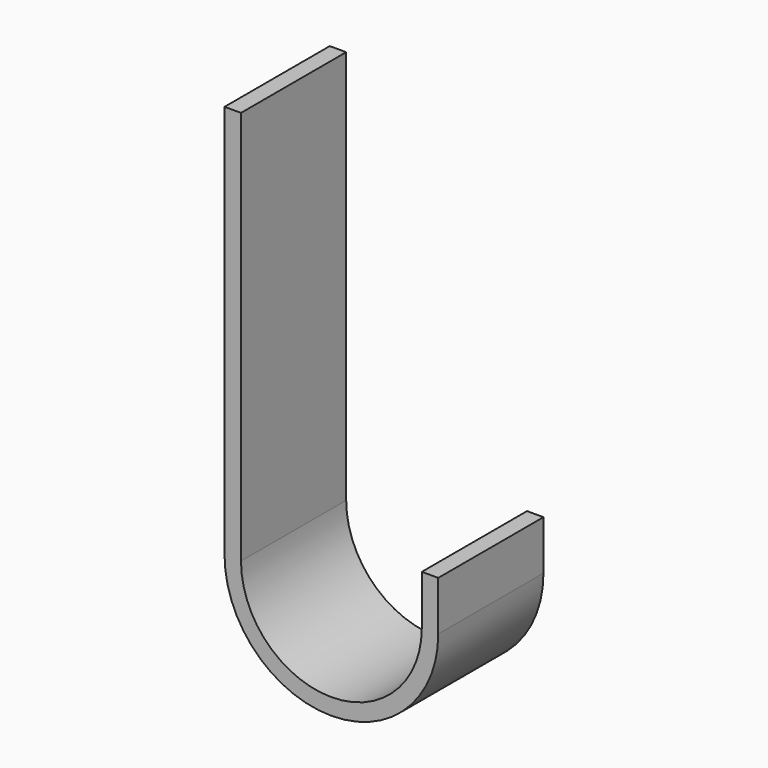
from build123d import *

# Parameters (mm, degrees)
F1_DEPTH = 50.8


with BuildPart() as f1:
    # F0 (on Front) → F1 (new body)
    with BuildSketch(Plane.XZ):
        with BuildLine():
            Line((0, 152.4), (0, 0))
            ThreePointArc((0, 0), (41.275, -41.275), (82.55, 0))
            Line((82.55, 0), (82.55, 19.05))
            Line((82.55, 19.05), (76.2, 19.05))
            Line((76.2, 19.05), (76.2, 0))
            ThreePointArc((76.2, 0), (41.275, -34.925), (6.35, 0))
            Line((6.35, 0), (6.35, 152.4))
            Line((6.35, 152.4), (0, 152.4))
        make_face()
    extrude(amount=F1_DEPTH)


solid = f1.part
